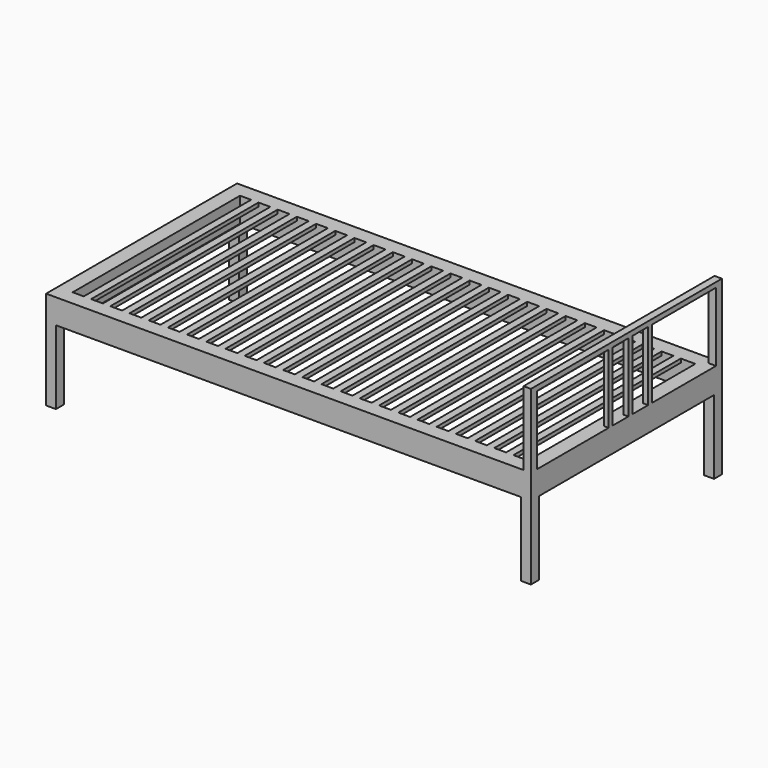
from build123d import *

# Parameters (mm, degrees)
F0_W     = 1970
F0_H     = 970
F0_W_2   = 30
F0_H_2   = 850
F1_DEPTH = 15
F2_DEPTH = 100
F3_W     = 30
F3_H     = 30
F3_W_2   = 20
F3_H_2   = 20
F4_DEPTH = 300
F5_W     = 30
F5_H     = 20
F6_DEPTH = 970
F7_W     = 40
F7_H     = 40
F8_DEPTH = 300


with BuildPart() as f1:
    # F0 (on Top) → F1 (new body)
    with BuildSketch(Plane.XY):
        Rectangle(F0_W, F0_H)
        Polygon((-925, -425), (-925, 425), (-880, 425), (-850, 425), (-802, 425), (-772, 425), (-724, 425), (-694, 425), (-646, 425), (-616, 425), (-568, 425), (-538, 425), (-490, 425), (-460, 425), (-412, 425), (-382, 425), (-334, 425), (-304, 425), (-256, 425), (-226, 425), (-178, 425), (-148, 425), (-100, 425), (-70, 425), (-22, 425), (8, 425), (56, 425), (86, 425), (134, 425), (164, 425), (212, 425), (242, 425), (290, 425), (320, 425), (368, 425), (398, 425), (446, 425), (476, 425), (524, 425), (554, 425), (602, 425), (632, 425), (680, 425), (710, 425), (758, 425), (788, 425), (836, 425), (866, 425), (925, 425), (925, -425), (866, -425), (836, -425), (788, -425), (758, -425), (710, -425), (680, -425), (632, -425), (602, -425), (554, -425), (524, -425), (476, -425), (446, -425), (398, -425), (368, -425), (320, -425), (290, -425), (242, -425), (212, -425), (164, -425), (134, -425), (86, -425), (56, -425), (8, -425), (-22, -425), (-70, -425), (-100, -425), (-148, -425), (-178, -425), (-226, -425), (-256, -425), (-304, -425), (-334, -425), (-382, -425), (-412, -425), (-460, -425), (-490, -425), (-538, -425), (-568, -425), (-616, -425), (-646, -425), (-694, -425), (-724, -425), (-772, -425), (-802, -425), (-850, -425), (-880, -425), align=None, mode=Mode.SUBTRACT)
        with Locations((-865, 0)):
            Rectangle(F0_W_2, F0_H_2)
        with Locations((-787, 0)):
            Rectangle(F0_W_2, F0_H_2)
        with Locations((-709, 0)):
            Rectangle(F0_W_2, F0_H_2)
        with Locations((-631, 0)):
            Rectangle(F0_W_2, F0_H_2)
        with Locations((-553, 0)):
            Rectangle(F0_W_2, F0_H_2)
        with Locations((-475, 0)):
            Rectangle(F0_W_2, F0_H_2)
        with Locations((-397, 0)):
            Rectangle(F0_W_2, F0_H_2)
        with Locations((-319, 0)):
            Rectangle(F0_W_2, F0_H_2)
        with Locations((-241, 0)):
            Rectangle(F0_W_2, F0_H_2)
        with Locations((-163, 0)):
            Rectangle(F0_W_2, F0_H_2)
        with Locations((-85, 0)):
            Rectangle(F0_W_2, F0_H_2)
        with Locations((-7, 0)):
            Rectangle(F0_W_2, F0_H_2)
        with Locations((71, 0)):
            Rectangle(F0_W_2, F0_H_2)
        with Locations((149, 0)):
            Rectangle(F0_W_2, F0_H_2)
        with Locations((227, 0)):
            Rectangle(F0_W_2, F0_H_2)
        with Locations((305, 0)):
            Rectangle(F0_W_2, F0_H_2)
        with Locations((383, 0)):
            Rectangle(F0_W_2, F0_H_2)
        with Locations((461, 0)):
            Rectangle(F0_W_2, F0_H_2)
        with Locations((539, 0)):
            Rectangle(F0_W_2, F0_H_2)
        with Locations((617, 0)):
            Rectangle(F0_W_2, F0_H_2)
        with Locations((695, 0)):
            Rectangle(F0_W_2, F0_H_2)
        with Locations((773, 0)):
            Rectangle(F0_W_2, F0_H_2)
        with Locations((851, 0)):
            Rectangle(F0_W_2, F0_H_2)
    extrude(amount=-F1_DEPTH)

    # F0 (on Top) → F2 (join)
    with BuildSketch(Plane.XY):
        Rectangle(F0_W, F0_H)
        Polygon((-925, -425), (-925, 425), (-880, 425), (-850, 425), (-802, 425), (-772, 425), (-724, 425), (-694, 425), (-646, 425), (-616, 425), (-568, 425), (-538, 425), (-490, 425), (-460, 425), (-412, 425), (-382, 425), (-334, 425), (-304, 425), (-256, 425), (-226, 425), (-178, 425), (-148, 425), (-100, 425), (-70, 425), (-22, 425), (8, 425), (56, 425), (86, 425), (134, 425), (164, 425), (212, 425), (242, 425), (290, 425), (320, 425), (368, 425), (398, 425), (446, 425), (476, 425), (524, 425), (554, 425), (602, 425), (632, 425), (680, 425), (710, 425), (758, 425), (788, 425), (836, 425), (866, 425), (925, 425), (925, -425), (866, -425), (836, -425), (788, -425), (758, -425), (710, -425), (680, -425), (632, -425), (602, -425), (554, -425), (524, -425), (476, -425), (446, -425), (398, -425), (368, -425), (320, -425), (290, -425), (242, -425), (212, -425), (164, -425), (134, -425), (86, -425), (56, -425), (8, -425), (-22, -425), (-70, -425), (-100, -425), (-148, -425), (-178, -425), (-226, -425), (-256, -425), (-304, -425), (-334, -425), (-382, -425), (-412, -425), (-460, -425), (-490, -425), (-538, -425), (-568, -425), (-616, -425), (-646, -425), (-694, -425), (-724, -425), (-772, -425), (-802, -425), (-850, -425), (-880, -425), align=None, mode=Mode.SUBTRACT)
    extrude(amount=-F2_DEPTH)

    # F3 (on face) → F4 (join)
    with BuildSketch(Plane.XY):
        with Locations((970, 470)):
            Rectangle(F3_W, F3_H)
        with Locations((970, -470)):
            Rectangle(F3_W, F3_H)
        with Locations((975, -80)):
            Rectangle(F3_W_2, F3_H_2)
        with Locations((975, 20)):
            Rectangle(F3_W_2, F3_H_2)
        with Locations((975, 120)):
            Rectangle(F3_W_2, F3_H_2)
    extrude(amount=F4_DEPTH)

    # F5 (on face) → F6 (join, through all)
    with BuildSketch(Plane.XZ.offset(485)):
        with Locations((970, 290)):
            Rectangle(F5_W, F5_H)
    extrude(amount=-F6_DEPTH)

    # F7 (on face) → F8 (join)
    with BuildSketch(Plane(origin=(0, 0, -100), x_dir=(1, 0, 0), z_dir=(0, 0, -1))):
        with Locations((965, 465)):
            Rectangle(F7_W, F7_H)
        with Locations((-965, 465)):
            Rectangle(F7_W, F7_H)
        with Locations((-965, -465)):
            Rectangle(F7_W, F7_H)
        with Locations((965, -465)):
            Rectangle(F7_W, F7_H)
    extrude(amount=F8_DEPTH)


solid = f1.part
